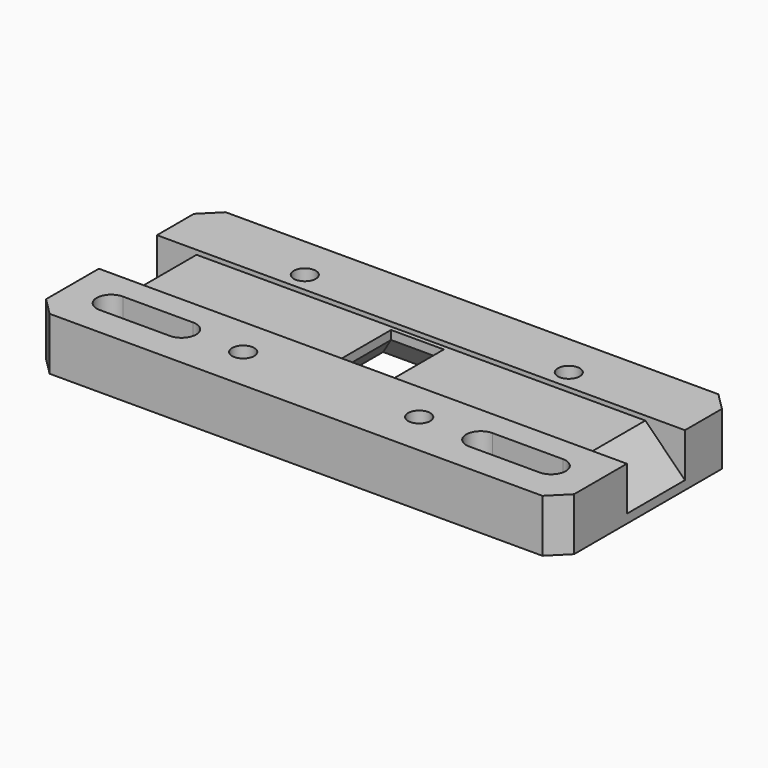
from build123d import *

# Parameters (mm, degrees)
SKETCH_W        = 60
SKETCH_H        = 25
PAD_DEPTH       = 6
SKETCH001_W     = 65
SKETCH001_H     = 8.25
POCKET_DEPTH    = 1
SKETCH002_W     = 6
SKETCH002_H     = 7.5
POCKET001_DEPTH = 10
CHAMFER_SIZE    = 4.5
SKETCH006_R     = 1.25
HOLE001_DEPTH   = 15
CHAMFER002_SIZE = 2
POCKET006_DEPTH = 10


with BuildPart() as part:
    # Sketch → Pad (new body)
    with BuildSketch(Plane.XY):
        Rectangle(SKETCH_W, SKETCH_H)
    extrude(amount=PAD_DEPTH)

    # Sketch001 → Pocket (cut)
    with BuildSketch(Plane.XY.offset(5.5)):
        with Locations((0, 1.125)):
            Rectangle(SKETCH001_W, SKETCH001_H)
    extrude(amount=POCKET_DEPTH, mode=Mode.SUBTRACT)

    # Sketch002 → Pocket001 (cut)
    with BuildSketch(Plane.XY):
        with Locations((0, 1)):
            Rectangle(SKETCH002_W, SKETCH002_H)
    extrude(amount=POCKET001_DEPTH, mode=Mode.SUBTRACT)

    # Chamfer
    chamfer_edges = [part.edges().sort_by_distance(p)[0] for p in [
        (0, 4.75, 0),
        (-3, 1, 0),
        (0, -2.75, 0),
        (3, 1, 0),
        (-30, 1.125, 5.5),
        (30, 1.125, 5.5),
    ]]
    chamfer(chamfer_edges, length=CHAMFER_SIZE)

    # Sketch006 → Hole001 (cut)
    with BuildSketch(Plane.XY):
        with Locations((-15, 7.5)):
            Circle(SKETCH006_R)
        with Locations((15, 7.5)):
            Circle(SKETCH006_R)
        with Locations((-10, -7.5)):
            Circle(SKETCH006_R)
        with Locations((10, -7.5)):
            Circle(SKETCH006_R)
    extrude(amount=HOLE001_DEPTH, mode=Mode.SUBTRACT)

    # Chamfer002
    chamfer002_edges = [part.edges().sort_by_distance(p)[0] for p in [
        (-30, -12.5, 3),
        (-30, 12.5, 3),
        (30, -12.5, 3),
        (30, 12.5, 3),
    ]]
    chamfer(chamfer002_edges, length=CHAMFER002_SIZE)

    # Sketch015 → Pocket006 (cut)
    with BuildSketch(Plane.XY):
        with BuildLine():
            ThreePointArc((-25, -5.85), (-26.65, -7.5), (-25, -9.15))
            Line((-25, -9.15), (-17, -9.15))
            ThreePointArc((-17, -9.15), (-15.35, -7.5), (-17, -5.85))
            Line((-25, -5.85), (-17, -5.85))
        make_face()
        with BuildLine():
            ThreePointArc((17, -5.85), (15.35, -7.5), (17, -9.15))
            Line((17, -9.15), (25, -9.15))
            ThreePointArc((25, -9.15), (26.65, -7.5), (25, -5.85))
            Line((17, -5.85), (25, -5.85))
        make_face()
    extrude(amount=POCKET006_DEPTH, mode=Mode.SUBTRACT)


solid = part.part
